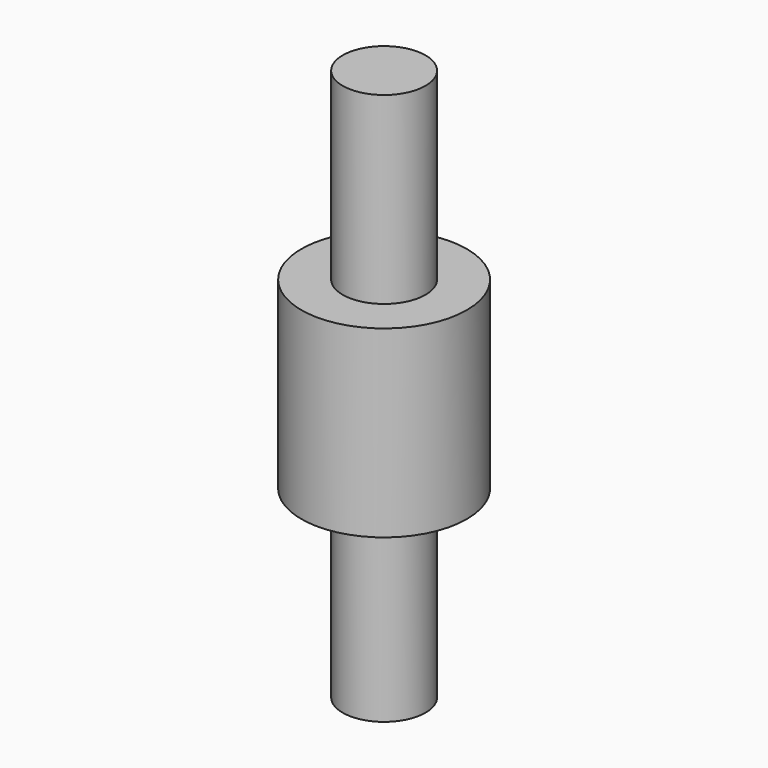
from build123d import *

# Parameters (mm, degrees)
CYLINDER002_R        = 4.5
CYLINDER002_DEPTH    = 10
CYLINDER003_R        = 2.25
CYLINDER003_DEPTH    = 30
CLONE014_SCALE_SCALE = 0.5


with BuildPart() as cylinder002:
    # Cylinder002 → Cylinder002 (new body)
    with BuildSketch(Plane(origin=(0, 10, 5), x_dir=(1, 0, 0), z_dir=(0, 0, 1))):
        Circle(CYLINDER002_R)
    extrude(amount=CYLINDER002_DEPTH)


with BuildPart() as clone014:
    # Cylinder003 → Cylinder003 (new body)
    with BuildSketch(Plane(origin=(0, 10, -5), x_dir=(1, 0, 0), z_dir=(0, 0, 1))):
        Circle(CYLINDER003_R)
    extrude(amount=CYLINDER003_DEPTH)

    # Fusion002: union Cylinder002
    add(cylinder002.part)


with BuildPart() as clone014_1:
    # Clone014 scale: moved
    add(clone014.part.scale(CLONE014_SCALE_SCALE))


with BuildPart() as clone014_2:
    # Clone014 placement: moved
    add(clone014_1.part.moved(Location((29.5, 39.8, 8.5))))


solid = clone014_2.part
